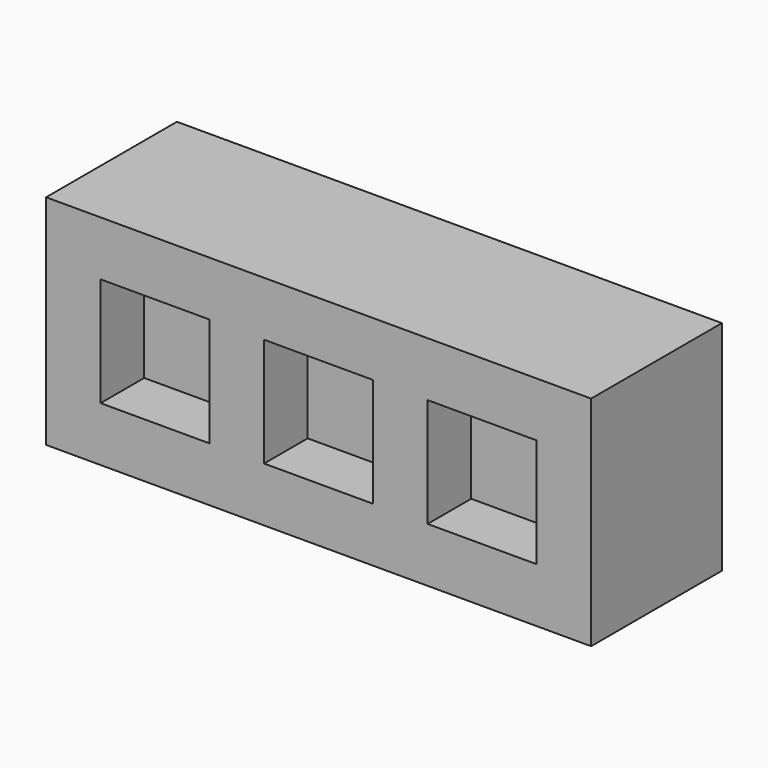
from build123d import *

# Parameters (mm, degrees)
F0_W     = 50
F0_H     = 20
F0_W_2   = 10
F0_H_2   = 10
F1_DEPTH = 5
F2_W     = 50
F2_H     = 20
F3_DEPTH = 10
F4_W     = 10
F4_H     = 10
F5_DEPTH = 5


with BuildPart() as f1:
    # F0 (on Front) → F1 (new body)
    with BuildSketch(Plane.XZ):
        Rectangle(F0_W, F0_H)
        with Locations((-15, 0)):
            Rectangle(F0_W_2, F0_H_2, mode=Mode.SUBTRACT)
        Rectangle(F0_W_2, F0_H_2, mode=Mode.SUBTRACT)
        with Locations((15, 0)):
            Rectangle(F0_W_2, F0_H_2, mode=Mode.SUBTRACT)
    extrude(amount=F1_DEPTH)

    # F2 (on face) → F3 (join)
    with BuildSketch(Plane(origin=(0, 0, 0), x_dir=(-1, 0, 0), z_dir=(0, 1, 0))):
        Rectangle(F2_W, F2_H)
    extrude(amount=F3_DEPTH)

    # F4 (on face) → F5 (join)
    with BuildSketch(Plane(origin=(0, 10, 0), x_dir=(-1, 0, 0), z_dir=(0, 1, 0))):
        Rectangle(F4_W, F4_H)
        with Locations((-15, 0)):
            Rectangle(F4_W, F4_H)
        with Locations((15, 0)):
            Rectangle(F4_W, F4_H)
    extrude(amount=F5_DEPTH)


solid = f1.part
